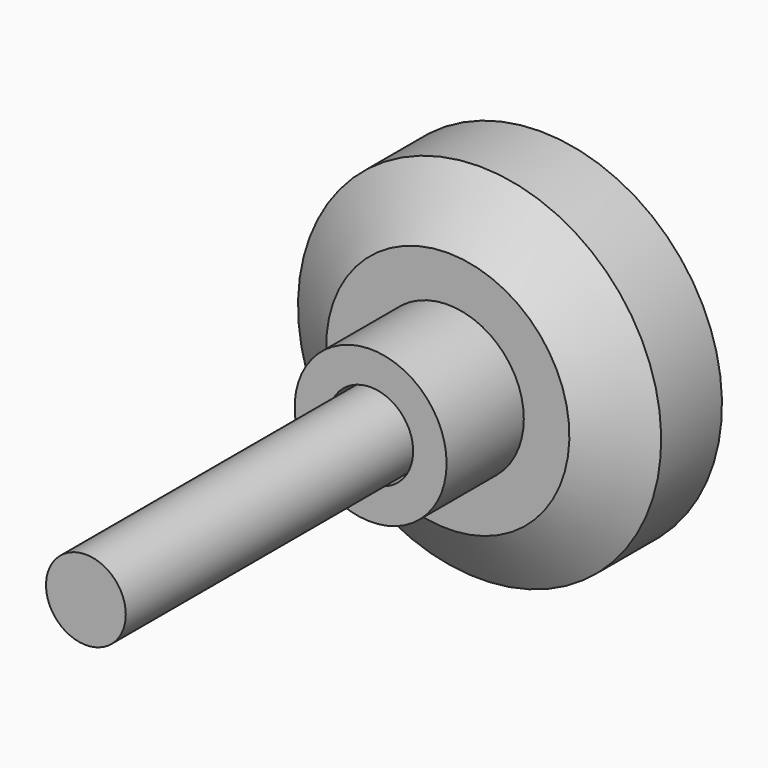
from build123d import *

# Parameters (mm, degrees)
F3_D     = 5.25
F4_R     = 2.625
F5_DEPTH = 40
F6_R     = 5
F6_R_2   = 2.625
F7_DEPTH = 6.35
F8_D     = 5.6


with BuildPart() as f1:
    # F0 (on Right) → F1 (revolve)
    with BuildSketch(Plane.YZ):
        Polygon((0, 8), (-2.615, 11.95), (-7.615, 11.95), (-10.23, 8), (-10.23, 0), (0, 0), align=None)
    revolve(axis=Axis((0, -5.115, 0), (0, 1, 0)))

    # F3 (through all)
    with Locations(Plane.XZ.offset(10.23)):
        with Locations((0, 0)):
            Hole(F3_D / 2)


with BuildPart() as f5:
    # F4 (on Front) → F5 (new body)
    with BuildSketch(Plane.XZ):
        Circle(F4_R)
    extrude(amount=F5_DEPTH)


with BuildPart() as f7:
    # F6 (on face) → F7 (new body)
    with BuildSketch(Plane.XZ.offset(10.23)):
        Circle(F6_R)
        Circle(F6_R_2, mode=Mode.SUBTRACT)
    extrude(amount=F7_DEPTH)

    # F8 (through all)
    with Locations(Plane(origin=(0, -10.23, 0), x_dir=(1, 0, 0), z_dir=(0, 1, 0))):
        with Locations((0, 0)):
            Hole(F8_D / 2)


solid = Compound([f1.part, f5.part, f7.part])
